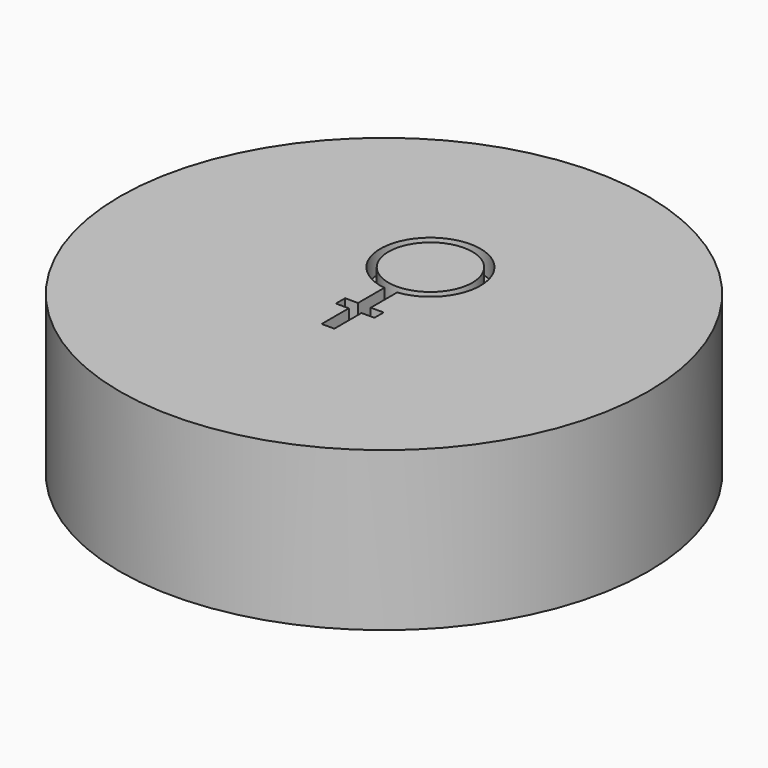
from build123d import *

# Parameters (mm, degrees)
F0_R     = 2.5
F1_DEPTH = 1.5
F2_R     = 0.39704
F3_DEPTH = 0.2


with BuildPart() as f1:
    # F0 (on Top) → F1 (new body)
    with BuildSketch(Plane.XY):
        Circle(F0_R)
    extrude(amount=F1_DEPTH)

    # F2 (on face) → F3 (cut)
    with BuildSketch(Plane.XY.offset(1.5)):
        with BuildLine():
            Line((0.060184, -0.232078), (0.060184, 0.079706))
            ThreePointArc((0.060184, 0.079706), (0, 1.022908), (-0.060184, 0.079706))
            Line((-0.060184, 0.079706), (-0.060184, -0.232078))
            Line((-0.060184, -0.232078), (-0.182563, -0.232078))
            Line((-0.182563, -0.232078), (-0.182563, -0.341458))
            Line((-0.182563, -0.341458), (-0.060184, -0.341458))
            Line((-0.060184, -0.341458), (-0.060184, -0.662747))
            Line((-0.060184, -0.662747), (0, -0.662747))
            Line((0, -0.662747), (0.060184, -0.662747))
            Line((0.060184, -0.662747), (0.060184, -0.341458))
            Line((0.060184, -0.341458), (0.182563, -0.341458))
            Line((0.182563, -0.341458), (0.182563, -0.232078))
            Line((0.182563, -0.232078), (0.060184, -0.232078))
        make_face()
        with Locations((0, 0.549387)):
            Circle(F2_R, mode=Mode.SUBTRACT)
    extrude(amount=-F3_DEPTH, mode=Mode.SUBTRACT)


solid = f1.part
